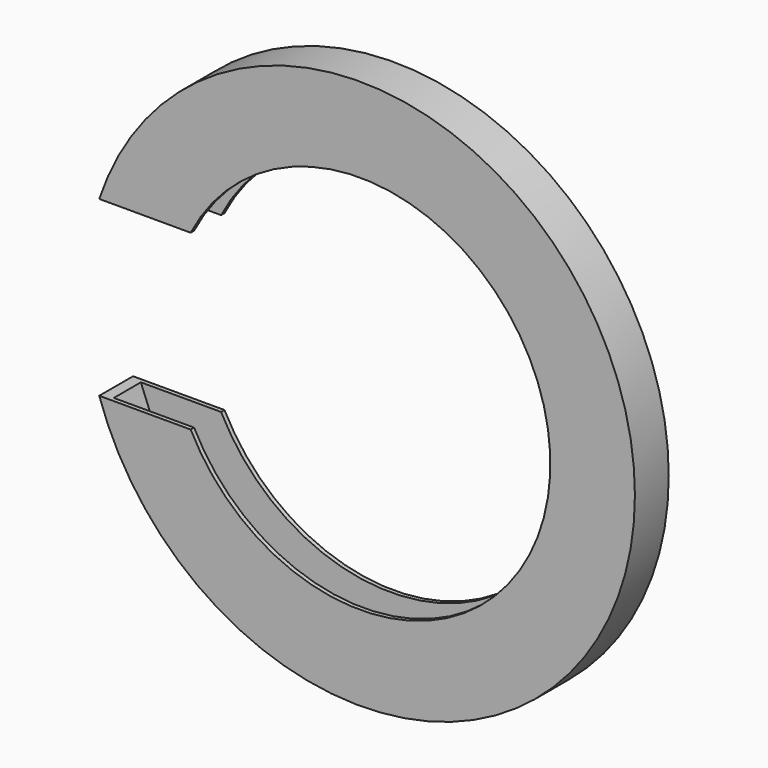
from build123d import *

# Parameters (mm, degrees)
F0_R     = 65
F1_DEPTH = 10
F3_DEPTH = 10.001
F5_R     = 62.5
F6_DEPTH = 8


with BuildPart() as f1:
    # F0 (on Front) → F1 (new body)
    with BuildSketch(Plane.XZ):
        Circle(F0_R)
    extrude(amount=F1_DEPTH)

    # F2 (on Front) → F3 (cut, through all)
    with BuildSketch(Plane.XZ):
        with BuildLine():
            Line((-104.790452, -20.48582), (-40.066584, -20.48582))
            ThreePointArc((-40.066584, -20.48582), (45, 0), (-40.066584, 20.48582))
            Line((-40.066584, 20.48582), (-167.11625, 20.48582))
            Line((-167.11625, 20.48582), (-104.790452, -20.48582))
        make_face()
    extrude(amount=F3_DEPTH, mode=Mode.SUBTRACT)

    # F5 (on offset) → F6 (cut)
    with BuildSketch(Plane.XZ.offset(1)):
        Circle(F5_R)
    extrude(amount=F6_DEPTH, mode=Mode.SUBTRACT)


solid = f1.part
